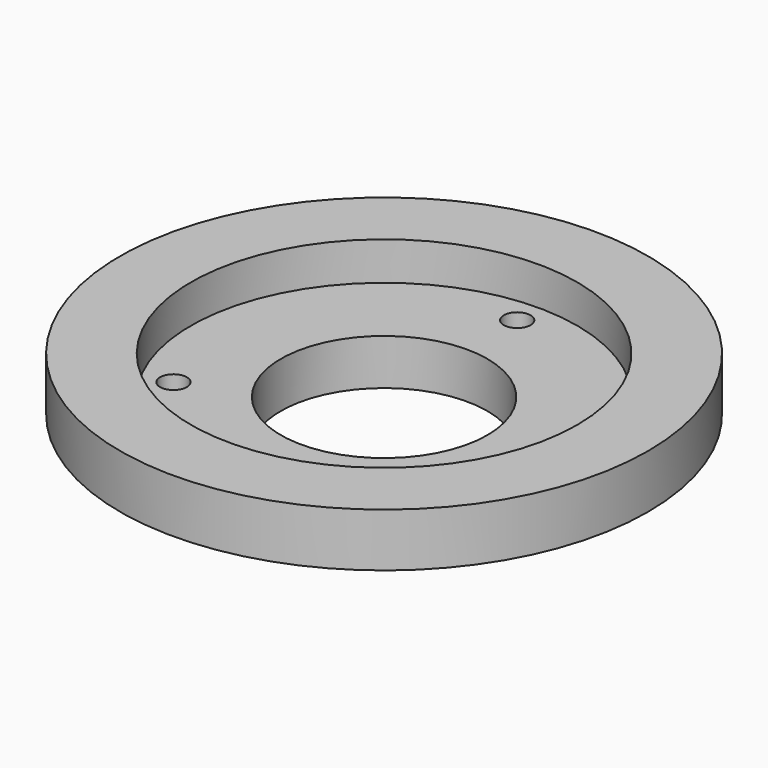
from build123d import *

# Parameters (mm, degrees)
F0_R        = 25.25
F0_R_2      = 1.75
F0_R_3      = 13.5
F1_DEPTH    = 4
F0_R_4      = 34.5
F1_FACE_R   = 25.25
F1_FACE_R_2 = 1.75
F1_FACE_R_3 = 13.5
F2_DEPTH    = 2
F3_DEPTH    = 7


with BuildPart() as f1:
    # F0 (on Top) → F1 (new body)
    with BuildSketch(Plane.XY):
        Circle(F0_R)
        with Locations((-18.839942, -10.86825)):
            Circle(F0_R_2, mode=Mode.SUBTRACT)
        with Locations((18.839942, -10.86825)):
            Circle(F0_R_2, mode=Mode.SUBTRACT)
        Circle(F0_R_3, mode=Mode.SUBTRACT)
        with Locations((0, 21.749995)):
            Circle(F0_R_2, mode=Mode.SUBTRACT)
    extrude(amount=-F1_DEPTH)

    # F0 (on Top) + F1_face (on face) → F2 (join)
    with BuildSketch(Plane.XY):
        Circle(F0_R_4)
        Circle(F0_R, mode=Mode.SUBTRACT)
    with BuildSketch(Plane(origin=(0, -9.3e-05, 0), x_dir=(1, 0, 0), z_dir=(0, 0, 1))):
        with Locations((0, 9.3e-05)):
            Circle(F1_FACE_R)
        with Locations((-18.839942, -10.868157)):
            Circle(F1_FACE_R_2, mode=Mode.SUBTRACT)
        with Locations((18.839942, -10.868157)):
            Circle(F1_FACE_R_2, mode=Mode.SUBTRACT)
        with Locations((0, 9.3e-05)):
            Circle(F1_FACE_R_3, mode=Mode.SUBTRACT)
        with Locations((0, 21.750087)):
            Circle(F1_FACE_R_2, mode=Mode.SUBTRACT)
    extrude(amount=F2_DEPTH)

    # F0 (on Top) → F3 (join)
    with BuildSketch(Plane.XY):
        Circle(F0_R_4)
        Circle(F0_R, mode=Mode.SUBTRACT)
    extrude(amount=F3_DEPTH)


solid = f1.part
